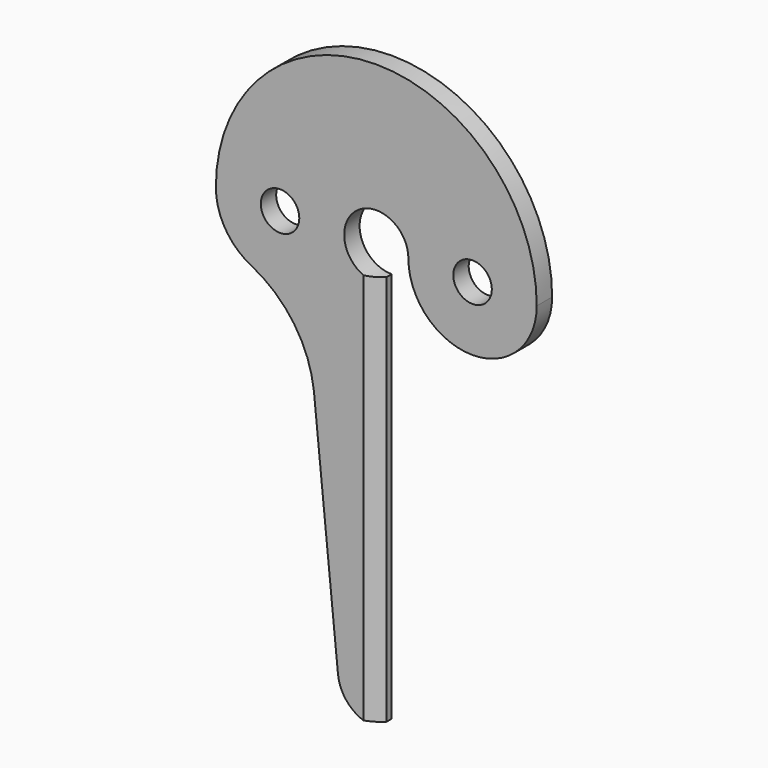
from build123d import *

# Parameters (mm, degrees)
F0_R     = 3
F1_DEPTH = 3
F2_SIZE  = 2


with BuildPart() as f1:
    # F0 (on Front) → F1 (new body)
    with BuildSketch(Plane.XZ):
        with BuildLine():
            ThreePointArc((5, 0), (15, -10), (25, 0))
            ThreePointArc((25, 0), (0, 25), (-25, 0))
            ThreePointArc((-25, 0), (-23.515691, -5.242423), (-19.5034, -8.928571))
            ThreePointArc((-19.5034, -8.928571), (-12.820251, -14.739516), (-9.717181, -23.034244))
            ThreePointArc((-9.717181, -23.034244), (-9.698411, -23.213333), (-9.681434, -23.392601))
            Line((-9.681434, -23.392601), (-5.97037, -60.595556))
            ThreePointArc((-5.97037, -60.595556), (-4.026578, -64.448221), (0, -66))
            Line((0, -66), (0, -60))
            Line((0, -60), (0, -5))
            ThreePointArc((0, -5), (-3.535534, 3.535534), (5, 0))
        make_face()
        with Locations((-15, 0)):
            Circle(F0_R, mode=Mode.SUBTRACT)
        with Locations((15, 0)):
            Circle(F0_R, mode=Mode.SUBTRACT)
    extrude(amount=F1_DEPTH)

    # F2
    f2_edges = [f1.edges().sort_by_distance(p)[0] for p in [
        (0, -3, -35.5),
    ]]
    chamfer(f2_edges, length=F2_SIZE)


solid = f1.part
